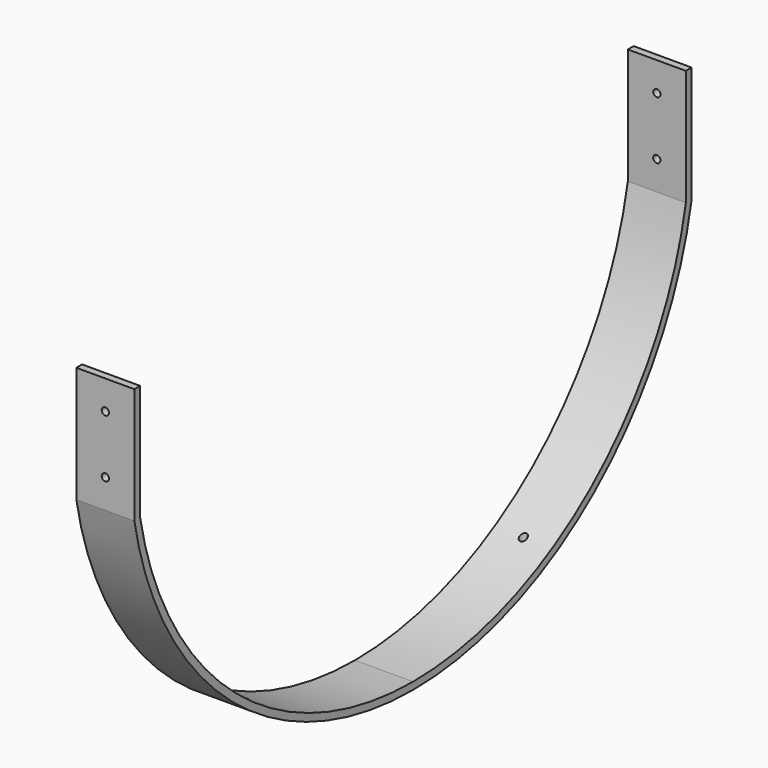
from build123d import *

# Parameters (mm, degrees)
F1_DEPTH  = 25.4
F1_FACE_W = 25.4
F1_FACE_H = 3.175
F2_DEPTH  = 50.8
F4_D      = 3.175
F6_D      = 3.175


with BuildPart() as f1:
    # F0 (on Right) → F1 (new body)
    with BuildSketch(Plane.YZ):
        with BuildLine():
            Line((3.175, 0), (0, 0))
            ThreePointArc((0, 0), (53.209829, -91.088205), (152.4, -127))
            Line((152.4, -127), (152.4, -123.825))
            ThreePointArc((152.4, -123.825), (55.44546, -88.837522), (3.175, 0))
        make_face()
        with BuildLine():
            Line((152.4, -123.825), (152.4, -127))
            ThreePointArc((152.4, -127), (251.590171, -91.088205), (304.8, 0))
            Line((304.8, 0), (301.625, 0))
            ThreePointArc((301.625, 0), (249.35454, -88.837522), (152.4, -123.825))
        make_face()
    extrude(amount=F1_DEPTH)

    # F1_face (on face) → F2 (join)
    with BuildSketch(Plane(origin=(12.7, 1.5875, 0), x_dir=(1, 0, 0), z_dir=(0, 0, 1))):
        Rectangle(F1_FACE_W, F1_FACE_H)
        with Locations((0, 301.625)):
            Rectangle(F1_FACE_W, F1_FACE_H)
    extrude(amount=F2_DEPTH)

    # F4 (through all)
    with Locations(Plane(origin=(0, 304.8, 0), x_dir=(-1, 0, 0), z_dir=(0, 1, 0))):
        with Locations((-12.7, 38.1), (-12.7, 12.7)):
            Hole(F4_D / 2)

    # F6 (through all)
    with Locations(Plane.XY):
        with Locations((12.7, 76.2), (12.7, 228.6)):
            Hole(F6_D / 2)


solid = f1.part
